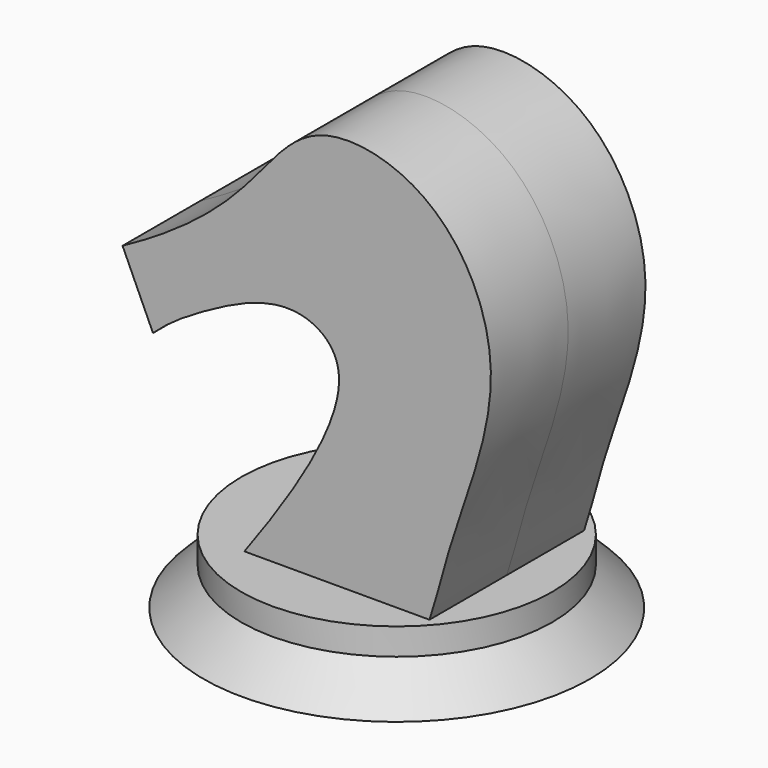
from build123d import *

# Parameters (mm, degrees)
F3_DEPTH      = 7.62
F3_DEPTH_BACK = 7.62


with BuildPart() as f1:
    # F0 (on Front) → F1 (revolve)
    with BuildSketch(Plane.XZ):
        Polygon((-15.24, 0), (0, 0), (0, 5.08), (-12.2661314196, 5.08), (-12.2661314196, 2.9738685804), align=None)
    revolve(axis=Axis((0, 0, 2.54), (0, 0, 1)))

    # F2 (on Front) → F3 (join, two sides)
    with BuildSketch(Plane.XZ) as f3_sk:
        with BuildLine():
            Line((-7.3416769874, 3.1662012553), (0, 3.3688344993))
            Line((0, 3.3688344993), (7.2427706889, 2.150822198))
            add(Edge.make_bspline(
                [(7.2427706889, 2.150822198), (8.6428351263, 3.9097056358), (9.9262974456, 11.0974441008), (15.5228182491, 23.7855183633), (9.76106866, 35.2336628085), (-0.6690425446, 37.380866027), (-5.5282984066, 30.2920788624), (-10.3723574545, 25.9812829784), (-15.524928458, 23.1707897037)],
                knots=[0, 0, 0, 0, 0.1551569571, 0.3479952539, 0.5221030276, 0.6747550055, 0.8136250582, 1, 1, 1, 1], degree=3))
            Line((-15.524928458, 23.1707897037), (-13.1250545382, 17.8910661489))
            add(Edge.make_bspline(
                [(-13.1250545382, 17.8910661489), (-11.9614680408, 19.0059994408), (-8.6537195801, 21.1199080777), (-2.2295121867, 24.1652797338), (4.4671287418, 19.7165806832), (-2.965693025, 8.9804379749), (-7.3416769874, 3.1662012553)],
                knots=[0, 0, 0, 0, 0.2045034732, 0.4312672546, 0.6211588488, 1, 1, 1, 1], degree=3))
        make_face()
    extrude(amount=F3_DEPTH)
    extrude(f3_sk.sketch, amount=-F3_DEPTH_BACK)


solid = f1.part
